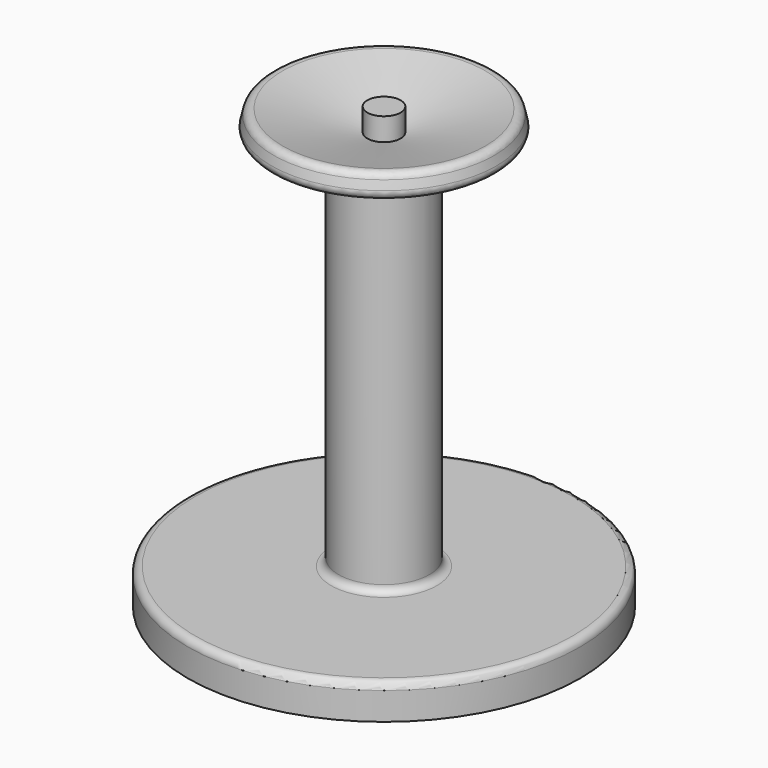
from build123d import *

# Parameters (mm, degrees)
F2_R = 1


with BuildPart() as f1:
    # F0 (on Front) → F1 (revolve)
    with BuildSketch(Plane.XZ):
        Polygon((2.263905, 0), (0, 0), (0, -59.7464), (26.653478, -59.7464), (26.653478, -54.991681), (6.179598, -54.991681), (6.179598, -5.421157), (15.535703, -3.100778), (14.766688, 0), (2.263905, -3.100778), align=None)
    revolve(axis=Axis((0, 0, -29.8732), (0, 0, 1)))

    # F2
    f2_edges = [f1.edges().sort_by_distance(p)[0] for p in [
        (-14.766688, 0, 0),
        (-15.535703, 0, -3.100778),
        (-26.653478, 0, -54.991681),
        (-6.179598, 0, -54.991681),
        (-6.179598, 0, -5.421157),
    ]]
    fillet(f2_edges, radius=F2_R)


solid = f1.part
